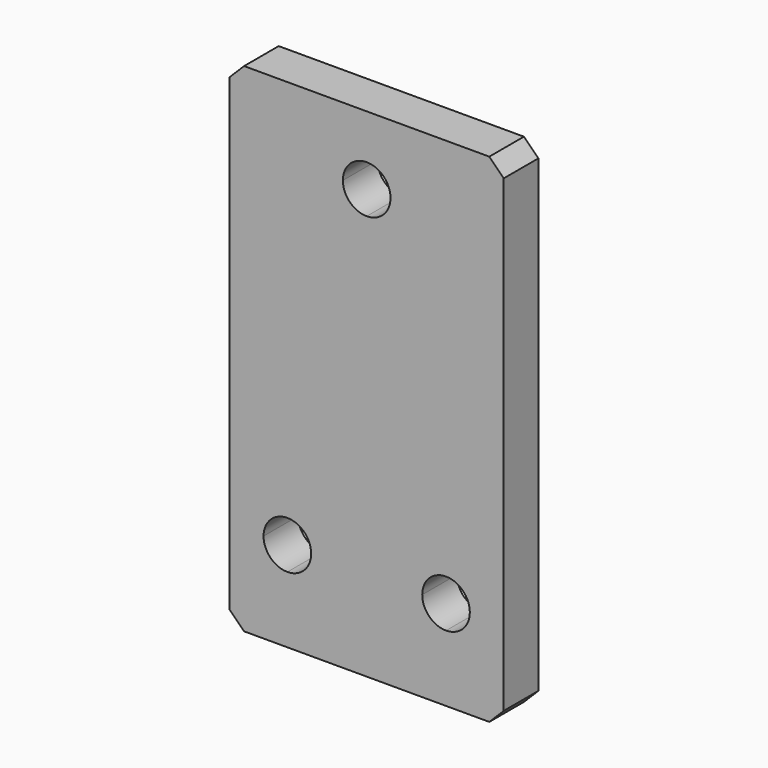
from build123d import *

# Parameters (mm, degrees)
F1_DEPTH = 6


with BuildPart() as f1:
    # F0 (on Front) → F1 (new body)
    with BuildSketch(Plane.XZ):
        Polygon((-65.540905, -63.527275), (-67.540905, -61.527275), (-101.540905, -61.527275), (-103.540905, -63.527275), (-103.540905, -128.527275), (-101.540905, -130.527275), (-67.540905, -130.527275), (-65.540905, -128.527275), align=None)
        with BuildLine():
            ThreePointArc((-95.540905, -121.327275), (-97.874357, -120.360727), (-98.840905, -118.027275))
            ThreePointArc((-98.840905, -118.027275), (-97.874357, -115.693823), (-95.540905, -114.727275))
            ThreePointArc((-95.540905, -114.727275), (-93.207453, -115.693823), (-92.240905, -118.027275))
            ThreePointArc((-92.240905, -118.027275), (-93.207453, -120.360727), (-95.540905, -121.327275))
        make_face(mode=Mode.SUBTRACT)
        with BuildLine():
            ThreePointArc((-73.540905, -121.327275), (-75.874357, -120.360727), (-76.840905, -118.027275))
            ThreePointArc((-76.840905, -118.027275), (-75.874357, -115.693823), (-73.540905, -114.727275))
            ThreePointArc((-73.540905, -114.727275), (-71.207453, -115.693823), (-70.240905, -118.027275))
            ThreePointArc((-70.240905, -118.027275), (-71.207453, -120.360727), (-73.540905, -121.327275))
        make_face(mode=Mode.SUBTRACT)
        with BuildLine():
            ThreePointArc((-84.540905, -74.327275), (-86.874357, -73.360727), (-87.840905, -71.027275))
            ThreePointArc((-87.840905, -71.027275), (-86.874357, -68.693823), (-84.540905, -67.727275))
            ThreePointArc((-84.540905, -67.727275), (-82.207453, -68.693823), (-81.240905, -71.027275))
            ThreePointArc((-81.240905, -71.027275), (-82.207453, -73.360727), (-84.540905, -74.327275))
        make_face(mode=Mode.SUBTRACT)
    extrude(amount=-F1_DEPTH)


solid = f1.part
